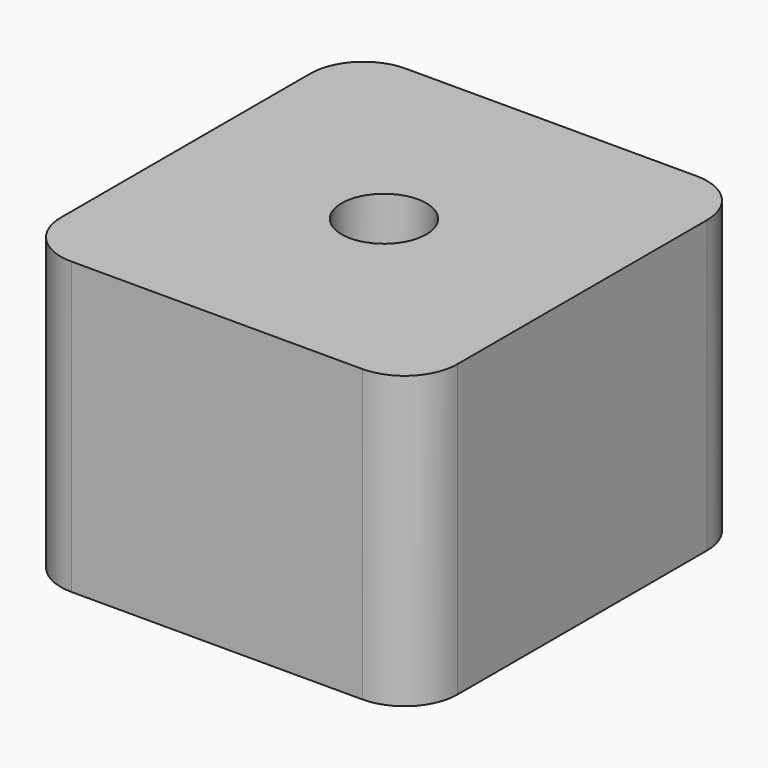
from build123d import *

# Parameters (mm, degrees)
F0_W     = 15
F0_H     = 15.8
F0_R     = 3
F0_R_2   = 1.6
F1_DEPTH = 11
F2_DEPTH = 5
F3_R     = 2


with BuildPart() as f1:
    # F0 (on Top) → F1 (new body)
    with BuildSketch(Plane.XY):
        Rectangle(F0_W, F0_H)
        Circle(F0_R, mode=Mode.SUBTRACT)
        Circle(F0_R)
        Circle(F0_R_2, mode=Mode.SUBTRACT)
    extrude(amount=F1_DEPTH)

    # F0 (on Top) → F2 (cut)
    with BuildSketch(Plane.XY):
        Circle(F0_R)
        Circle(F0_R_2, mode=Mode.SUBTRACT)
    extrude(amount=F2_DEPTH, mode=Mode.SUBTRACT)

    # F3
    f3_edges = [f1.edges().sort_by_distance(p)[0] for p in [
        (-7.5, 7.9, 5.5),
        (-7.5, -7.9, 5.5),
        (7.5, -7.9, 5.5),
        (7.5, 7.9, 5.5),
    ]]
    fillet(f3_edges, radius=F3_R)


solid = f1.part
